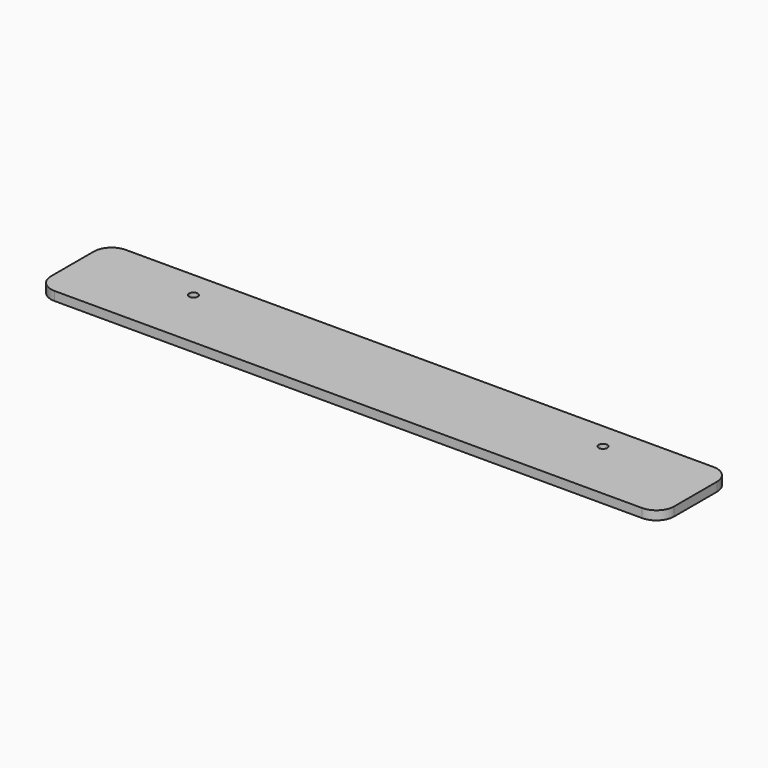
from build123d import *

# Parameters (mm, degrees)
SKETCH_R  = 1.55
PAD_DEPTH = 3.175


with BuildPart() as part:
    # Sketch → Pad (new body)
    with BuildSketch(Plane.XY):
        with BuildLine():
            Line((-104.775, 15.875), (104.775, 15.875))
            ThreePointArc((111.125, 9.525), (109.265128, 14.015128), (104.775, 15.875))
            Line((111.125, 9.525), (111.125, -9.525))
            ThreePointArc((104.775, -15.875), (109.265128, -14.015128), (111.125, -9.525))
            Line((104.775, -15.875), (-104.775, -15.875))
            ThreePointArc((-111.125, -9.525), (-109.265128, -14.015128), (-104.775, -15.875))
            Line((-111.125, -9.525), (-111.125, 9.525))
            ThreePointArc((-104.775, 15.875), (-109.265128, 14.015128), (-111.125, 9.525))
        make_face()
        with Locations((-73.025, 6.35)):
            Circle(SKETCH_R, mode=Mode.SUBTRACT)
        with Locations((73.025, 6.35)):
            Circle(SKETCH_R, mode=Mode.SUBTRACT)
    extrude(amount=PAD_DEPTH)


solid = part.part
